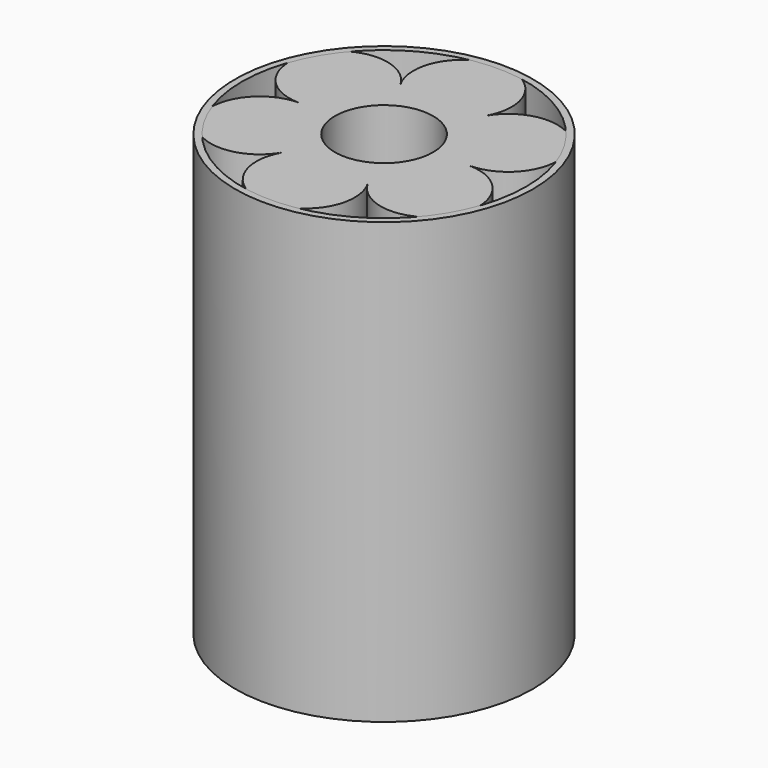
from build123d import *

# Parameters (mm, degrees)
F1_DEPTH  = 32
F2_START  = 1
F1_FACE_R = 7.25
F2_DEPTH  = 32
F3_R      = 22
F3_R_2    = 21
F4_DEPTH  = 65


with BuildPart() as f1:
    # F0 (on Top) → F1 (new body)
    with BuildSketch(Plane.XY):
        with BuildLine():
            ThreePointArc((6.278684147, 10.8749999472), (7.0029622327, 12.6235618936), (7.25, 14.5))
            ThreePointArc((7.25, 14.5), (-1.8764380406, 21.5029622503), (-6.2786842151, 10.8750000652))
            ThreePointArc((-6.2786842151, 10.8750000652), (-3.6250000326, 8.2213158414), (0, 7.25))
            ThreePointArc((0, 7.25), (3.6249999736, 8.2213158073), (6.278684147, 10.8749999472))
        make_face()
        with BuildLine():
            ThreePointArc((0, 7.25), (-3.6250000326, 8.2213158414), (-6.2786842151, 10.8750000652))
            ThreePointArc((-6.2786842151, 10.8750000652), (-5.554406124, 9.1264381133), (-5.3073683549, 7.25))
            ThreePointArc((-5.3073683549, 7.25), (-5.5544061045, 5.3735619594), (-6.2786841398, 3.6250000652))
            ThreePointArc((-6.2786841398, 3.6250000652), (-3.6249999674, 6.2786841963), (0, 7.25))
        make_face()
        with BuildLine():
            ThreePointArc((-5.3073683549, 7.25), (-5.554406124, 9.1264381133), (-6.2786842151, 10.8750000652))
            ThreePointArc((-6.2786842151, 10.8750000652), (-18.8360525511, 10.8749999674), (-12.5573683549, 0))
            ThreePointArc((-12.5573683549, 0), (-8.9323683223, 0.9713158414), (-6.2786841398, 3.6250000652))
            ThreePointArc((-6.2786841398, 3.6250000652), (-5.5544061045, 5.3735619594), (-5.3073683549, 7.25))
        make_face()
        with BuildLine():
            ThreePointArc((6.278684216, 3.6249999331), (5.3073683549, 7.2499999309), (6.278684147, 10.8749999472))
            ThreePointArc((6.278684147, 10.8749999472), (3.6249999736, 8.2213158073), (0, 7.25))
            ThreePointArc((0, 7.25), (3.6250000334, 6.2786841581), (6.278684216, 3.6249999331))
        make_face()
        with BuildLine():
            ThreePointArc((19.8073683549, 7.25), (14.4338064024, 14.2529622485), (6.278684147, 10.8749999472))
            ThreePointArc((6.278684147, 10.8749999472), (5.3073683549, 7.2499999309), (6.278684216, 3.6249999331))
            ThreePointArc((6.278684216, 3.6249999331), (8.932368391, 0.9713158017), (12.557368361, 0))
            ThreePointArc((12.557368361, 0), (17.6838925206, 2.1234758386), (19.8073683549, 7.25))
        make_face()
        with BuildLine():
            ThreePointArc((-6.2786841398, 3.6250000652), (-8.9323683223, 0.9713158414), (-12.5573683549, 0))
            ThreePointArc((-12.5573683549, 0), (-8.9323683494, -0.9713158258), (-6.2786841711, -3.625000011))
            ThreePointArc((-6.2786841711, -3.625000011), (-7.25, 3.13e-08), (-6.2786841398, 3.6250000652))
        make_face()
        with BuildLine():
            ThreePointArc((-6.2786841711, -3.625000011), (-8.9323683494, -0.9713158258), (-12.5573683549, 0))
            ThreePointArc((-12.5573683549, 0), (-18.8360525345, -10.8749999961), (-6.2786841819, -10.8750000077))
            ThreePointArc((-6.2786841819, -10.8750000077), (-5.5544061154, -9.1264380813), (-5.3073683549, -7.25))
            ThreePointArc((-5.3073683549, -7.25), (-5.5544061126, -5.3735619292), (-6.2786841711, -3.625000011))
        make_face()
        with BuildLine():
            ThreePointArc((12.557368361, 0), (8.932368391, 0.9713158017), (6.278684216, 3.6249999331))
            ThreePointArc((6.278684216, 3.6249999331), (7.0029622506, 1.8764380397), (7.25, 0))
            ThreePointArc((7.25, 0), (7.0029622201, -1.8764381537), (6.2786840981, -3.6250001375))
            ThreePointArc((6.2786840981, -3.6250001375), (8.9323682888, -0.9713158607), (12.557368361, 0))
        make_face()
        with BuildLine():
            ThreePointArc((-9.9e-09, -7.25), (-3.6249999988, -6.2786841781), (-6.2786841711, -3.625000011))
            ThreePointArc((-6.2786841711, -3.625000011), (-5.5544061126, -5.3735619292), (-5.3073683549, -7.25))
            ThreePointArc((-5.3073683549, -7.25), (-5.5544061154, -9.1264380813), (-6.2786841819, -10.8750000077))
            ThreePointArc((-6.2786841819, -10.8750000077), (-3.6250000082, -8.2213158273), (-9.9e-09, -7.25))
        make_face()
        with BuildLine():
            ThreePointArc((-9.9e-09, -7.25), (-3.6250000082, -8.2213158273), (-6.2786841819, -10.8750000077))
            ThreePointArc((-6.2786841819, -10.8750000077), (-1.8764380727, -21.5029622417), (7.25, -14.5))
            ThreePointArc((7.25, -14.5), (7.0029622192, -12.6235618433), (6.278684095, -10.8749998571))
            ThreePointArc((6.278684095, -10.8749998571), (3.6249999243, -8.2213157788), (-9.9e-09, -7.25))
        make_face()
        with BuildLine():
            ThreePointArc((19.8073683549, -7.25), (17.6838925206, -2.1234758386), (12.557368361, 0))
            ThreePointArc((12.557368361, 0), (8.9323682888, -0.9713158607), (6.2786840981, -3.6250001375))
            ThreePointArc((6.2786840981, -3.6250001375), (5.3073683549, -7.2499999969), (6.278684095, -10.8749998571))
            ThreePointArc((6.278684095, -10.8749998571), (14.4338063522, -14.2529622619), (19.8073683549, -7.25))
        make_face()
        with BuildLine():
            ThreePointArc((6.2786840981, -3.6250001375), (3.624999927, -6.2786842196), (-9.9e-09, -7.25))
            ThreePointArc((-9.9e-09, -7.25), (3.6249999243, -8.2213157788), (6.278684095, -10.8749998571))
            ThreePointArc((6.278684095, -10.8749998571), (5.3073683549, -7.2499999969), (6.2786840981, -3.6250001375))
        make_face()
    extrude(amount=F1_DEPTH)


with BuildPart() as f2:
    # F1_face (on face) → F2 (new body)
    with BuildSketch(Plane.XY.offset(32).offset(F2_START)):
        with BuildLine():
            ThreePointArc((-6.2786841819, -10.8750000077), (8.69e-08, -21.75), (6.278684095, -10.8749998571))
            ThreePointArc((6.278684095, -10.8749998571), (18.8360524895, -10.8750000741), (12.557368361, 0))
            ThreePointArc((12.557368361, 0), (18.8360525155, 10.875000029), (6.278684147, 10.8749999472))
            ThreePointArc((6.278684147, 10.8749999472), (6.81e-08, 21.75), (-6.2786842151, 10.8750000652))
            ThreePointArc((-6.2786842151, 10.8750000652), (-18.8360525511, 10.8749999674), (-12.5573683549, 0))
            ThreePointArc((-12.5573683549, 0), (-18.8360525345, -10.8749999961), (-6.2786841819, -10.8750000077))
        make_face()
        Circle(F1_FACE_R, mode=Mode.SUBTRACT)
        with BuildLine():
            ThreePointArc((-6.2786841819, -10.8750000077), (8.69e-08, -21.75), (6.278684095, -10.8749998571))
            ThreePointArc((6.278684095, -10.8749998571), (18.8360524895, -10.8750000741), (12.557368361, 0))
            ThreePointArc((12.557368361, 0), (18.8360525155, 10.875000029), (6.278684147, 10.8749999472))
            ThreePointArc((6.278684147, 10.8749999472), (6.81e-08, 21.75), (-6.2786842151, 10.8750000652))
            ThreePointArc((-6.2786842151, 10.8750000652), (-18.8360525511, 10.8749999674), (-12.5573683549, 0))
            ThreePointArc((-12.5573683549, 0), (-18.8360525345, -10.8749999961), (-6.2786841819, -10.8750000077))
        make_face()
        Circle(F1_FACE_R, mode=Mode.SUBTRACT)
        with BuildLine():
            ThreePointArc((-6.2786841819, -10.8750000077), (8.69e-08, -21.75), (6.278684095, -10.8749998571))
            ThreePointArc((6.278684095, -10.8749998571), (18.8360524895, -10.8750000741), (12.557368361, 0))
            ThreePointArc((12.557368361, 0), (18.8360525155, 10.875000029), (6.278684147, 10.8749999472))
            ThreePointArc((6.278684147, 10.8749999472), (6.81e-08, 21.75), (-6.2786842151, 10.8750000652))
            ThreePointArc((-6.2786842151, 10.8750000652), (-18.8360525511, 10.8749999674), (-12.5573683549, 0))
            ThreePointArc((-12.5573683549, 0), (-18.8360525345, -10.8749999961), (-6.2786841819, -10.8750000077))
        make_face()
        Circle(F1_FACE_R, mode=Mode.SUBTRACT)
        with BuildLine():
            ThreePointArc((-6.2786841819, -10.8750000077), (8.69e-08, -21.75), (6.278684095, -10.8749998571))
            ThreePointArc((6.278684095, -10.8749998571), (18.8360524895, -10.8750000741), (12.557368361, 0))
            ThreePointArc((12.557368361, 0), (18.8360525155, 10.875000029), (6.278684147, 10.8749999472))
            ThreePointArc((6.278684147, 10.8749999472), (6.81e-08, 21.75), (-6.2786842151, 10.8750000652))
            ThreePointArc((-6.2786842151, 10.8750000652), (-18.8360525511, 10.8749999674), (-12.5573683549, 0))
            ThreePointArc((-12.5573683549, 0), (-18.8360525345, -10.8749999961), (-6.2786841819, -10.8750000077))
        make_face()
        Circle(F1_FACE_R, mode=Mode.SUBTRACT)
    extrude(amount=F2_DEPTH)


with BuildPart() as f4:
    # F3 (on Top) → F4 (new body)
    with BuildSketch(Plane.XY):
        Circle(F3_R)
        Circle(F3_R_2, mode=Mode.SUBTRACT)
    extrude(amount=F4_DEPTH)


solid = Compound([f1.part, f2.part, f4.part])
